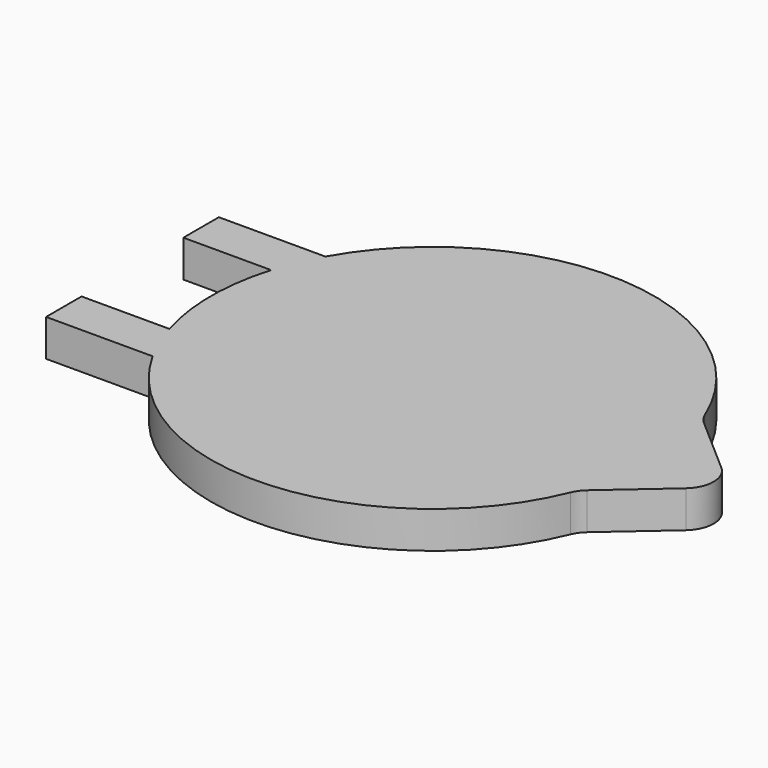
from build123d import *

# Parameters (mm, degrees)
F1_DEPTH = 0.5
F2_R     = 0.4


with BuildPart() as f1:
    # F0 (on Top) → F1 (new body)
    with BuildSketch(Plane.XY):
        with BuildLine():
            Line((-4.062, 0.861426), (-2.873664, 0.861426))
            ThreePointArc((-2.873664, 0.861426), (-3, 0), (-2.873664, -0.861426))
            Line((-2.873664, -0.861426), (-4.062, -0.861426))
            Line((-4.062, -0.861426), (-4.062, -1.461426))
            Line((-4.062, -1.461426), (-2.619968, -1.461426))
            ThreePointArc((-2.619968, -1.461426), (0.225595, -2.991506), (2.809509, -1.051979))
            Line((2.809509, -1.051979), (4.013425, 0))
            Line((4.013425, 0), (2.809509, 1.051979))
            ThreePointArc((2.809509, 1.051979), (0.225595, 2.991506), (-2.619968, 1.461426))
            Line((-2.619968, 1.461426), (-4.062, 1.461426))
            Line((-4.062, 1.461426), (-4.062, 0.861426))
        make_face()
    extrude(amount=F1_DEPTH)

    # F2
    f2_edges = [f1.edges().sort_by_distance(p)[0] for p in [
        (4.013425, 0, 0.25),
        (2.809509, 1.051979, 0.25),
        (2.809509, -1.051979, 0.25),
    ]]
    fillet(f2_edges, radius=F2_R)


solid = f1.part
